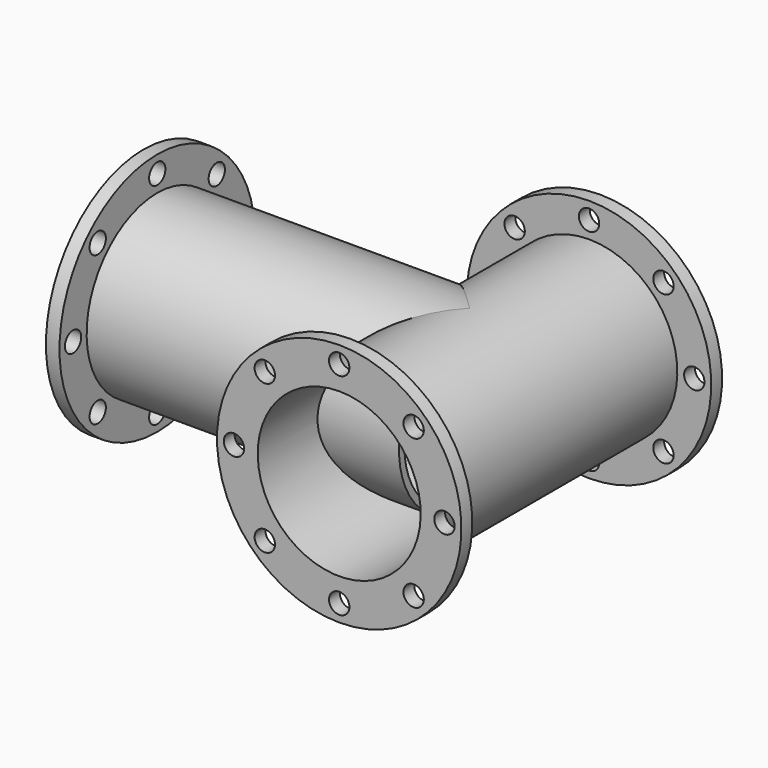
from build123d import *

# Parameters (mm, degrees)
F3_R      = 9.525
F4_DEPTH  = 304.801
F9_R      = 9.525
F10_DEPTH = 25.4


with BuildPart() as f1:
    # F0 (on Right) → F1 (revolve)
    with BuildSketch(Plane.YZ):
        Polygon((0, 76.2), (0, 114.3), (-12.7, 114.3), (-12.7, 82.55), (-292.1, 82.55), (-292.1, 114.3), (-304.8, 114.3), (-304.8, 76.2), align=None)
    revolve(axis=Axis((0, 69.9869556047, 0), (0, 1, 0)))

    # F3 (on offset) → F4 (cut, through all)
    with BuildSketch(Plane.XZ.offset(304.8)):
        with Locations((0, 98.425)):
            Circle(F3_R)
        with Locations((-69.5969849383, 69.5969849383)):
            Circle(F3_R)
        with Locations((-98.425, 0)):
            Circle(F3_R)
        with Locations((-69.5969849383, -69.5969849383)):
            Circle(F3_R)
        with Locations((0, -98.425)):
            Circle(F3_R)
        with Locations((69.5969849383, -69.5969849383)):
            Circle(F3_R)
        with Locations((98.425, 0)):
            Circle(F3_R)
        with Locations((69.5969849383, 69.5969849383)):
            Circle(F3_R)
    extrude(amount=-F4_DEPTH, mode=Mode.SUBTRACT)

    # F6 (on mid) → F7 (revolve)
    with BuildSketch(Plane(origin=(0, -152.4, 0), x_dir=(-1, 0, 0), z_dir=(0, 1, 0))):
        Polygon((304.7994956722, 76.2), (304.7994956722, 114.3), (292.0994956722, 114.3), (292.0994956722, 82.55), (-0.0005043278, 82.55), (-0.0005043278, 76.2), align=None)
    revolve(axis=Axis((-10.2738440037, -152.4, 0), (1, 0, 0)))

    # F9 (on offset) → F10 (cut)
    with BuildSketch(Plane(origin=(-304.7994956722, 0, 0), x_dir=(0, -1, 0), z_dir=(-1, 0, 0))):
        with Locations((152.4, 98.425)):
            Circle(F9_R)
        with Locations((82.8030150617, 69.5969849383)):
            Circle(F9_R)
        with Locations((53.975, 0)):
            Circle(F9_R)
        with Locations((82.8030150617, -69.5969849383)):
            Circle(F9_R)
        with Locations((152.4, -98.425)):
            Circle(F9_R)
        with Locations((221.9969849383, -69.5969849383)):
            Circle(F9_R)
        with Locations((250.825, 0)):
            Circle(F9_R)
        with Locations((221.9969849383, 69.5969849383)):
            Circle(F9_R)
    extrude(amount=-F10_DEPTH, mode=Mode.SUBTRACT)


solid = f1.part
